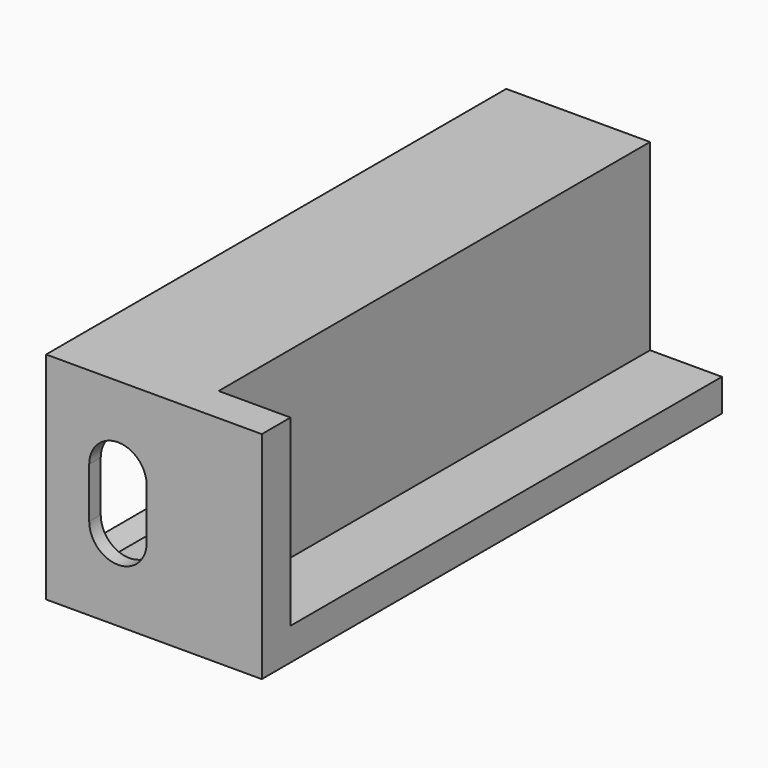
from build123d import *

# Parameters (mm, degrees)
BOX_W           = 30
BOX_H           = 80
BOX_DEPTH       = 30
SKETCH_W        = 75
SKETCH_H        = 21
POCKET_DEPTH    = 10
SKETCH001_W     = 76
SKETCH001_H     = 22
POCKET001_DEPTH = 18
POCKET002_DEPTH = 78
SKETCH003_W     = 6
SKETCH003_H     = 8
PAD_DEPTH       = 5
FILLET_R        = 2
POCKET003_DEPTH = 3
FILLET001_R     = 0.2
SKETCH005_R     = 1.5
POCKET004_DEPTH = 19
SKETCH006_R     = 1.5
SKETCH006_R_2   = 2.5
POCKET005_DEPTH = 5
PAD001_DEPTH    = 13
SKETCH008_R     = 1.5
POCKET006_DEPTH = 8
SKETCH009_W     = 75
SKETCH009_H     = 25
POCKET007_DEPTH = 10


with BuildPart() as part:
    # Box → Box (join)
    with BuildSketch(Plane.XY):
        with Locations((15, 40)):
            Rectangle(BOX_W, BOX_H)
    extrude(amount=BOX_DEPTH)

    # Sketch (on Face2 of Box) → Pocket (cut)
    with BuildSketch(Plane.YZ.offset(30)):
        with Locations((42.5, 15)):
            Rectangle(SKETCH_W, SKETCH_H)
    extrude(amount=-POCKET_DEPTH, mode=Mode.SUBTRACT)

    # Sketch001 → Pocket001 (cut)
    with BuildSketch(Plane.YZ):
        with Locations((40, 15)):
            Rectangle(SKETCH001_W, SKETCH001_H)
    extrude(amount=POCKET001_DEPTH, mode=Mode.SUBTRACT)

    # Sketch002 (on Face5 of Pocket001) → Pocket002 (cut)
    with BuildSketch(Plane(origin=(0, 80, 0), x_dir=(-1, 0, 0), z_dir=(0, 1, 0))):
        Polygon((-4, 28), (-2, 28), (0, 26), (5, 26), (5, 4), (0, 4), (-2, 2), (-4, 2), align=None)
    extrude(amount=-POCKET002_DEPTH, mode=Mode.SUBTRACT)

    # Sketch003 → Pad (join)
    with BuildSketch(Plane.YZ.offset(18)):
        with Locations((51, 22)):
            Rectangle(SKETCH003_W, SKETCH003_H)
        with Locations((51, 8)):
            Rectangle(SKETCH003_W, SKETCH003_H)
        with Locations((3.611342, 22)):
            Rectangle(SKETCH003_W, SKETCH003_H)
        with Locations((4, 8)):
            Rectangle(SKETCH003_W, SKETCH003_H)
    extrude(amount=-PAD_DEPTH)

    # Fillet
    fillet_edges = [part.edges().sort_by_distance(p)[0] for p in [
        (15.5, 2, 18),
        (15.5, 2, 12),
        (15.5, 7, 12),
        (15.5, 6.611342, 18),
        (15.5, 48, 12),
        (15.5, 54, 12),
        (15.5, 48, 4),
        (15.5, 54, 4),
        (15.5, 54, 18),
        (15.5, 48, 18),
        (15.5, 48, 26),
        (15.5, 54, 26),
        (15.5, 7, 4),
        (15.5, 6.611342, 26),
    ]]
    fillet(fillet_edges, radius=FILLET_R)

    # Sketch004 (on Face46 of Fillet) → Pocket003 (cut)
    with BuildSketch(Plane.XZ):
        with BuildLine():
            ThreePointArc((14, 18.5), (10, 22.5), (6, 18.5))
            Line((6, 18.5), (6, 11.5))
            ThreePointArc((6, 11.5), (10, 7.5), (14, 11.5))
            Line((14, 11.5), (14, 18.5))
        make_face()
    extrude(amount=-POCKET003_DEPTH, mode=Mode.SUBTRACT)

    # Fillet001
    fillet001_edges = [part.edges().sort_by_distance(p)[0] for p in [
        (13, 3, 19.438901),
        (13.5, 3, 17.732051),
        (13.5, 3, 12.267949),
        (13, 3, 10.561099),
    ]]
    fillet(fillet001_edges, radius=FILLET001_R)

    # Sketch005 → Pocket004 (cut)
    with BuildSketch(Plane.YZ):
        with Locations((4, 9.3)):
            Circle(SKETCH005_R)
        with Locations((4, 20.7)):
            Circle(SKETCH005_R)
        with Locations((51, 9.3)):
            Circle(SKETCH005_R)
        with Locations((51, 20.7)):
            Circle(SKETCH005_R)
    extrude(amount=POCKET004_DEPTH, mode=Mode.SUBTRACT)

    # Sketch006 (on Face58 of Pocket004) → Pocket005 (cut)
    with BuildSketch(Plane(origin=(0, 80, 0), x_dir=(-1, 0, 0), z_dir=(0, 1, 0))):
        with Locations((-15, 13)):
            Circle(SKETCH006_R)
        with Locations((-15, 7)):
            Circle(SKETCH006_R_2)
        with BuildLine():
            ThreePointArc((-13, 23), (-15, 25), (-17, 23))
            Line((-17, 23), (-17, 19))
            ThreePointArc((-17, 19), (-15, 17), (-13, 19))
            Line((-13, 19), (-13, 23))
        make_face()
    extrude(amount=-POCKET005_DEPTH, mode=Mode.SUBTRACT)

    # Sketch007 → Pad001 (join, symmetric)
    with BuildSketch(Plane.XY.offset(15)):
        with BuildLine():
            Line((4, 80), (10, 80))
            ThreePointArc((4, 74), (8.242641, 75.757359), (10, 80))
            Line((4, 80), (4, 74))
        make_face()
    extrude(amount=PAD001_DEPTH, both=True)

    # Sketch008 → Pocket006 (cut)
    with BuildSketch(Plane.YZ):
        with Locations((77, 15)):
            Circle(SKETCH008_R)
    extrude(amount=POCKET006_DEPTH, mode=Mode.SUBTRACT)

    # Sketch009 (on Face49 of Pocket006) → Pocket007 (cut)
    with BuildSketch(Plane.YZ.offset(30)):
        with Locations((42.5, 32.5)):
            Rectangle(SKETCH009_W, SKETCH009_H)
    extrude(amount=-POCKET007_DEPTH, mode=Mode.SUBTRACT)


solid = part.part
